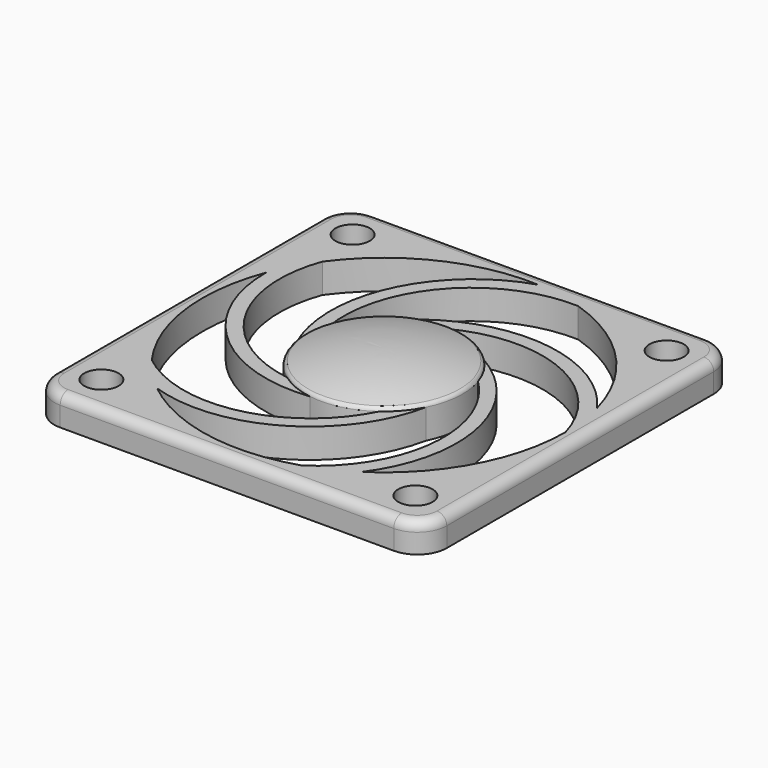
from build123d import *

# Parameters (mm, degrees)
F0_R     = 1.75
F1_DEPTH = 3
F2_R     = 1


with BuildPart() as f1:
    # F0 (on Top) → F1 (new body)
    with BuildSketch(Plane.XY):
        with BuildLine():
            ThreePointArc((0, 3), (0.8786796564, 0.8786796564), (3, 0))
            Line((3, 0), (37, 0))
            ThreePointArc((37, 0), (39.1213203436, 0.8786796564), (40, 3))
            Line((40, 3), (40, 37))
            ThreePointArc((40, 37), (39.1213203436, 39.1213203436), (37, 40))
            Line((37, 40), (3, 40))
            ThreePointArc((3, 40), (0.8786796564, 39.1213203436), (0, 37))
            Line((0, 37), (0, 3))
        make_face()
        with Locations((4, 4)):
            Circle(F0_R, mode=Mode.SUBTRACT)
        with BuildLine():
            ThreePointArc((25.7168143959, 2.4054544485), (16.6516253204, 1.8055396616), (8.3939355728, 5.5934296756))
            ThreePointArc((8.3939355728, 5.5934296756), (20.1917154021, 6.7967188392), (27.1456707418, 16.4028636876))
            ThreePointArc((27.1456707418, 16.4028636876), (27.9768447331, 19.3917664063), (27.6084521304, 22.472135955))
            ThreePointArc((27.6084521304, 22.472135955), (31.4294663136, 11.9894373312), (25.7168143959, 2.4054544485))
        make_face(mode=Mode.SUBTRACT)
        with BuildLine():
            ThreePointArc((5.0331856041, 9.1259728326), (1.6613352552, 17.56209611), (2.7120662697, 26.5861481412))
            ThreePointArc((2.7120662697, 26.5861481412), (7.5021767329, 15.7376295574), (18.7870537655, 12.0924870261))
            ThreePointArc((18.7870537655, 12.0924870261), (21.8865160613, 12.2256153201), (24.7022820183, 13.527864045))
            ThreePointArc((24.7022820183, 13.527864045), (15.9134015021, 6.6545315855), (5.0331856041, 9.1259728326))
        make_face(mode=Mode.SUBTRACT)
        with Locations((36, 4)):
            Circle(F0_R, mode=Mode.SUBTRACT)
        with BuildLine():
            ThreePointArc((20, 28), (31.1503971529, 28.3946684161), (38.5, 20))
            ThreePointArc((38.5, 20), (36.2692553858, 11.1931089939), (30.1149914386, 4.5101017371))
            ThreePointArc((30.1149914386, 4.5101017371), (32.6163099018, 16.1022939223), (25.6292136254, 25.6843604706))
            ThreePointArc((25.6292136254, 25.6843604706), (23.0434451067, 27.3984756459), (20, 28))
        make_face(mode=Mode.SUBTRACT)
        with BuildLine():
            ThreePointArc((5.0331856041, 30.8740271674), (12.014456559, 36.687752873), (20.9215337867, 38.4770337306))
            ThreePointArc((20.9215337867, 38.4770337306), (12.0842050334, 30.5689913546), (12.1046872588, 18.7100245281))
            ThreePointArc((12.1046872588, 18.7100245281), (13.1890863131, 15.8033996199), (15.2977179817, 13.527864045))
            ThreePointArc((15.2977179817, 13.527864045), (6.0448769164, 19.7626095929), (5.0331856041, 30.8740271674))
        make_face(mode=Mode.SUBTRACT)
        with Locations((4, 36)):
            Circle(F0_R, mode=Mode.SUBTRACT)
        with BuildLine():
            ThreePointArc((25.7168143959, 37.5945455515), (33.4033274796, 32.7515023614), (37.8574729322, 24.8332867156))
            ThreePointArc((37.8574729322, 24.8332867156), (27.6055929298, 30.7943663266), (16.3333746086, 27.1102642876))
            ThreePointArc((16.3333746086, 27.1102642876), (13.9041077858, 25.1807430078), (12.3915478696, 22.472135955))
            ThreePointArc((12.3915478696, 22.472135955), (15.461858115, 33.1987530743), (25.7168143959, 37.5945455515))
        make_face(mode=Mode.SUBTRACT)
        with Locations((36, 36)):
            Circle(F0_R, mode=Mode.SUBTRACT)
    extrude(amount=F1_DEPTH)

    # F2
    f2_edges = [f1.edges().sort_by_distance(p)[0] for p in [
        (20, 0, 3),
    ]]
    fillet(f2_edges, radius=F2_R)

    # F4 (on offset) → F5 (revolve)
    with BuildSketch(Plane.XZ.offset(-20)):
        with BuildLine():
            Line((12, 3), (20, 3))
            Line((20, 3), (20, 4.5))
            ThreePointArc((20, 4.5), (16.1031638738, 4.2209285699), (12.292759493, 3.358356189))
            ThreePointArc((12.292759493, 3.358356189), (12.1024290926, 3.2150836308), (12, 3))
        make_face()
    revolve(axis=Axis((20, 20, 2.25), (0, 0, 1)))


solid = f1.part
